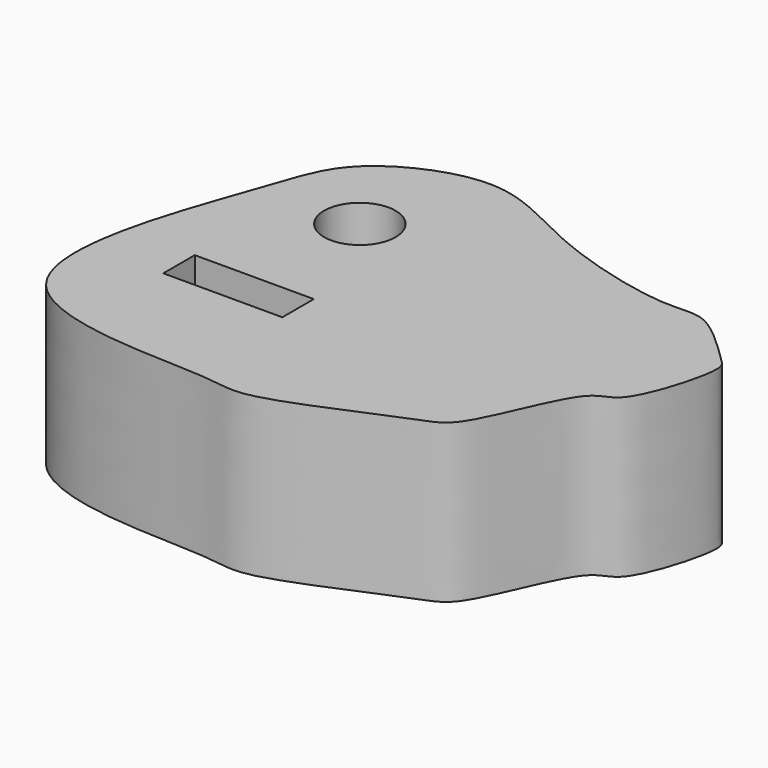
from build123d import *

# Parameters (mm, degrees)
F0_W     = 37.6832932234
F0_H     = 12.462857645
F0_R     = 11.3196685215
F1_DEPTH = 50


with BuildPart() as f1:
    # F0 (on Top) → F1 (new body)
    with BuildSketch(Plane.XY):
        with BuildLine():
            add(Edge.make_bspline(
                [(-118.2758882642, 29.4487141073), (-113.7434371107, 42.5693994872), (-110.0438488169, 57.2387853218), (-71.8564703042, 74.7053680143), (-42.5894277555, 53.9527163996), (-0.2528389689, 43.57794898), (12.1470227937, 47.6601030266), (28.8098062083, 30.4795715131), (33.0783727124, 26.9884310199), (24.4980719906, -3.7348609051), (12.9955233258, -1.5486003383), (1.1772615964, -38.1192502031), (-10.426545602, -40.9278197264), (-52.0226614876, -60.3489646387), (-63.7891686374, -54.3566390062), (-151.7845708419, -58.5651209293), (-125.3396158704, 9.0004082363), (-118.2758882642, 29.4487141073)],
                knots=[0, 0, 0, 0, 0.0691294021, 0.1426103598, 0.2188556791, 0.3007565199, 0.3455015388, 0.4037733021, 0.4344163561, 0.5006361143, 0.5392007713, 0.6120852862, 0.6590867328, 0.7407027374, 0.7922888797, 0.8922633141, 1, 1, 1, 1], degree=3))
        make_face()
        with Locations((-88.8307094574, -13.1820125971)):
            Rectangle(F0_W, F0_H, mode=Mode.SUBTRACT)
        with Locations((-86.2512215972, 31.5827764571)):
            Circle(F0_R, mode=Mode.SUBTRACT)
    extrude(amount=F1_DEPTH)


solid = f1.part
